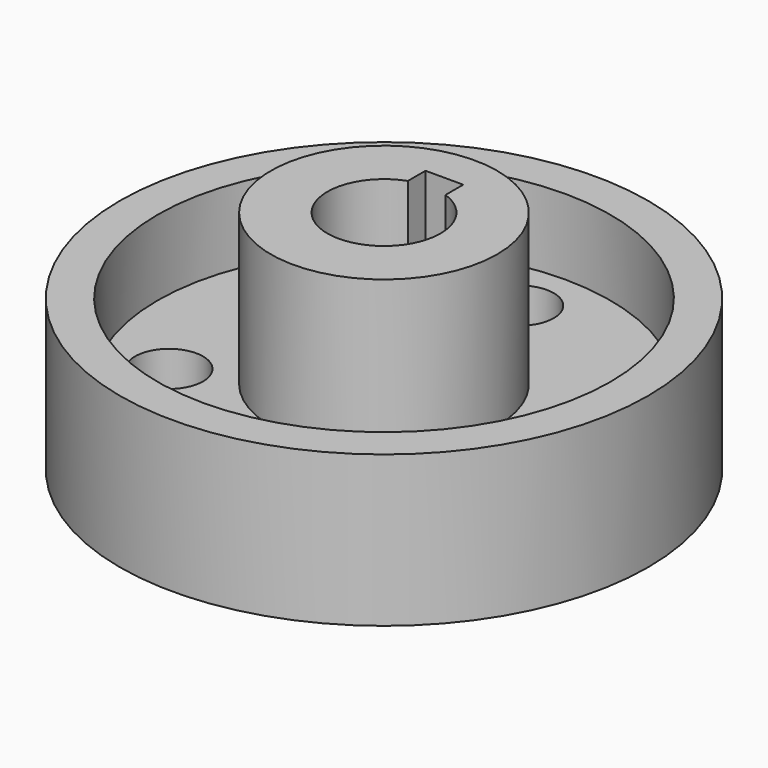
from build123d import *

# Parameters (mm, degrees)
F0_R     = 177.8
F0_R_2   = 22.86
F1_DEPTH = 152.4
F2_R     = 152.4
F2_R_2   = 76.2
F3_DEPTH = 101.6
F4_R     = 177.8
F4_R_2   = 152.4
F5_DEPTH = 50.8


with BuildPart() as f1:
    # F0 (on Top) → F1 (new body)
    with BuildSketch(Plane.XY):
        Circle(F0_R)
        with Locations((-98.986704, -57.15)):
            Circle(F0_R_2, mode=Mode.SUBTRACT)
        with Locations((98.986704, -57.15)):
            Circle(F0_R_2, mode=Mode.SUBTRACT)
        with BuildLine():
            ThreePointArc((12.7, 35.921024), (31.10852, 21.997045), (38.1, 0))
            ThreePointArc((38.1, 0), (-21.997045, -31.10852), (-12.7, 35.921024))
            Line((-12.7, 35.921024), (-12.7, 50.8))
            Line((-12.7, 50.8), (12.7, 50.8))
            Line((12.7, 50.8), (12.7, 35.921024))
        make_face(mode=Mode.SUBTRACT)
        with Locations((0, 114.3)):
            Circle(F0_R_2, mode=Mode.SUBTRACT)
    extrude(amount=F1_DEPTH)

    # F2 (on face) → F3 (cut)
    with BuildSketch(Plane.XY.offset(152.4)):
        Circle(F2_R)
        Circle(F2_R_2, mode=Mode.SUBTRACT)
    extrude(amount=-F3_DEPTH, mode=Mode.SUBTRACT)

    # F4 (on face) → F5 (cut)
    with BuildSketch(Plane.XY.offset(152.4)):
        Circle(F4_R)
        Circle(F4_R_2, mode=Mode.SUBTRACT)
    extrude(amount=-F5_DEPTH, mode=Mode.SUBTRACT)


solid = f1.part
